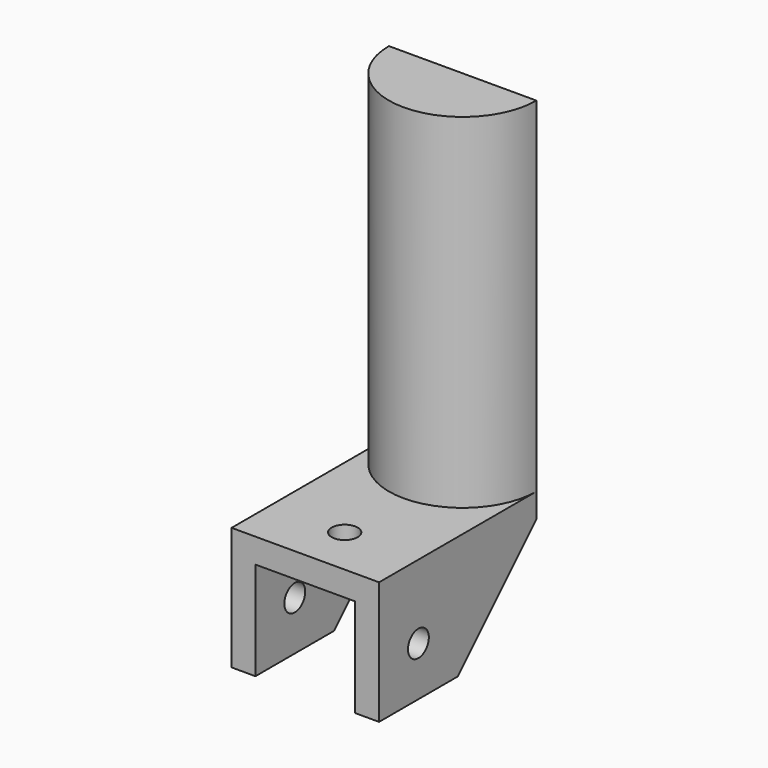
from build123d import *

# Parameters (mm, degrees)
F1_DEPTH = 75
F2_W     = 30
F2_H     = 40
F2_R     = 2.65
F3_DEPTH = 5
F4_W     = 4.85
F4_H     = 40
F5_DEPTH = 20
F6_R     = 2.65
F7_DEPTH = 30
F9_DEPTH = 30


with BuildPart() as f1:
    # F0 (on Top) → F1 (new body)
    with BuildSketch(Plane.XY):
        with BuildLine():
            Line((15, 0), (-15, 0))
            ThreePointArc((-15, 0), (0, -15), (15, 0))
        make_face()
    extrude(amount=F1_DEPTH)

    # F2 (on Top) → F3 (join)
    with BuildSketch(Plane.XY):
        with Locations((0, -20)):
            Rectangle(F2_W, F2_H)
        with Locations((0, -30)):
            Circle(F2_R, mode=Mode.SUBTRACT)
    extrude(amount=F3_DEPTH)

    # F4 (on face) → F5 (join)
    with BuildSketch(Plane(origin=(0, 0, 0), x_dir=(1, 0, 0), z_dir=(0, 0, -1))):
        with Locations((-12.575, 20)):
            Rectangle(F4_W, F4_H)
        with Locations((12.575, 20)):
            Rectangle(F4_W, F4_H)
    extrude(amount=F5_DEPTH)

    # F6 (on face) → F7 (cut, through all)
    with BuildSketch(Plane(origin=(-15, 0, 0), x_dir=(0, -1, 0), z_dir=(-1, 0, 0))):
        with Locations((30, -10)):
            Circle(F6_R)
    extrude(amount=-F7_DEPTH, mode=Mode.SUBTRACT)

    # F8 (on face) → F9 (cut, through all)
    with BuildSketch(Plane.YZ.offset(15)):
        Polygon((0, 0), (-20, -20), (0, -20), align=None)
    extrude(amount=-F9_DEPTH, mode=Mode.SUBTRACT)


solid = f1.part
